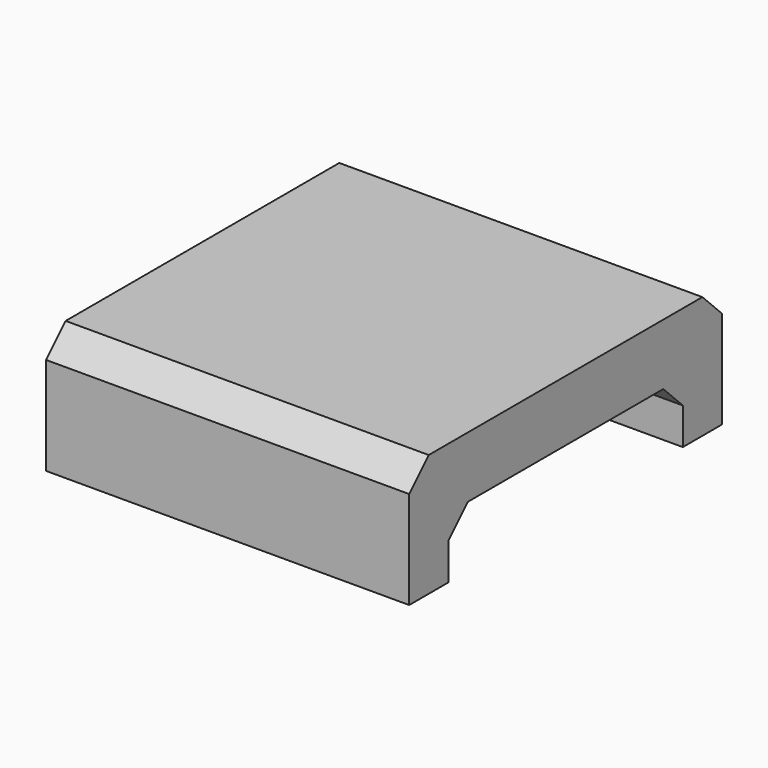
from build123d import *

# Parameters (mm, degrees)
SKETCH003_W     = 14.861519
SKETCH003_H     = 16
PAD001_DEPTH    = 5
SKETCH004_W     = 12
SKETCH004_H     = 2.5
POCKET002_DEPTH = 34.621148
CHAMFER_SIZE    = 1


with BuildPart() as part:
    # Sketch003 (on DatumPlane) → Pad001 (new body)
    with BuildSketch(Plane.XY.offset(2.5)):
        with Locations((-27.189388, 6)):
            Rectangle(SKETCH003_W, SKETCH003_H)
    extrude(amount=PAD001_DEPTH)

    # Sketch004 → Pocket002 (cut, through all)
    with BuildSketch(Plane.YZ):
        with Locations((6, 3.75)):
            Rectangle(SKETCH004_W, SKETCH004_H)
    extrude(amount=-POCKET002_DEPTH, mode=Mode.SUBTRACT)

    # Chamfer
    chamfer_edges = [part.edges().sort_by_distance(p)[0] for p in [
        (-27.189388, 12, 5),
        (-27.189388, 0, 5),
        (-27.189388, -2, 7.5),
        (-27.189388, 14, 7.5),
    ]]
    chamfer(chamfer_edges, length=CHAMFER_SIZE)


solid = part.part
